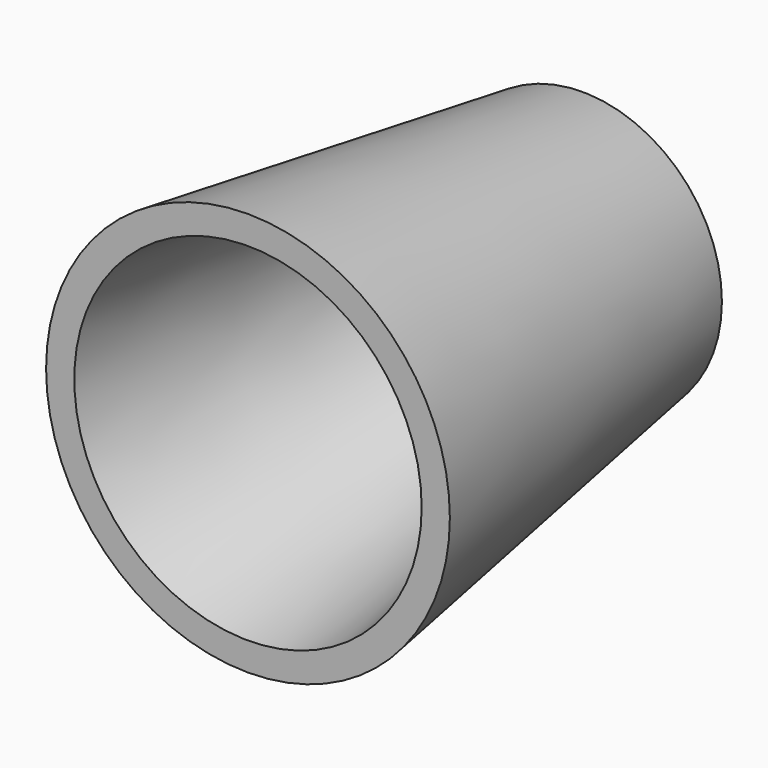
from build123d import *

# Parameters (mm, degrees)
F0_R     = 12.7
F1_DEPTH = 38.1
F1_TAPER = -8.5
F2_T     = -2.54


with BuildPart() as f1:
    # F0 (on Front) → F1 (new body)
    with BuildSketch(Plane.XZ):
        Circle(F0_R)
    extrude(amount=F1_DEPTH, taper=F1_TAPER)

    # F2
    f2_openings = [f1.faces().sort_by_distance(p)[0] for p in [
        (0, -38.1, 0),
    ]]
    offset(amount=F2_T, openings=f2_openings, kind=Kind.INTERSECTION)


solid = f1.part
